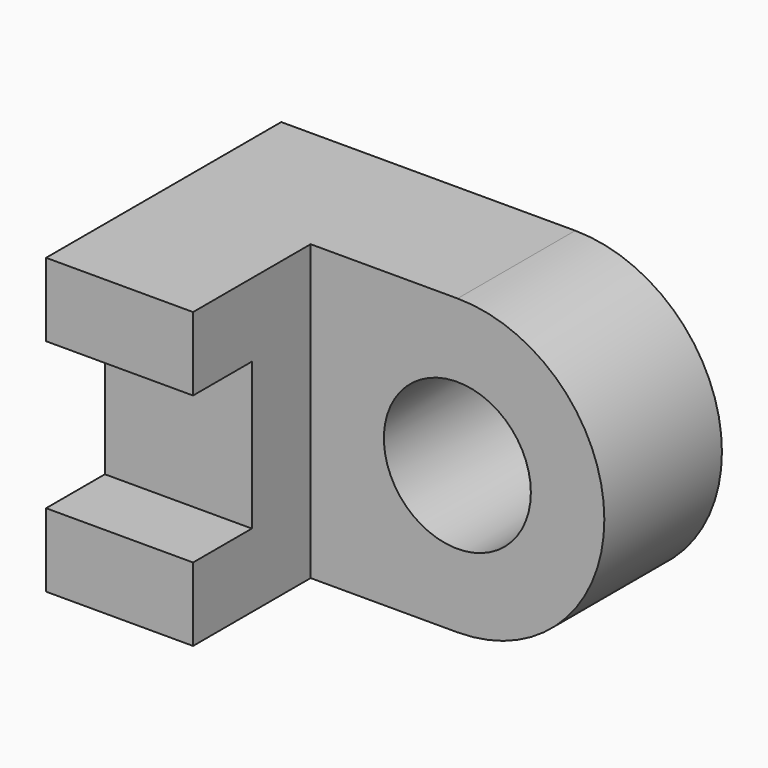
from build123d import *

# Parameters (mm, degrees)
F0_R     = 10
F1_DEPTH = 20
F2_W     = 20
F2_H     = 40
F3_DEPTH = 20
F4_W     = 20
F4_H     = 20
F5_DEPTH = 10


with BuildPart() as f1:
    # F0 (on Front) → F1 (new body)
    with BuildSketch(Plane.XZ):
        with BuildLine():
            Line((-40, 40), (-40, 0))
            Line((-40, 0), (0, 0))
            ThreePointArc((0, 0), (19.968011, 20), (0, 40))
            Line((0, 40), (-40, 40))
        make_face()
        with Locations((-0.032014, 20)):
            Circle(F0_R, mode=Mode.SUBTRACT)
    extrude(amount=F1_DEPTH)

    # F2 (on face) → F3 (join)
    with BuildSketch(Plane.XZ.offset(20)):
        with Locations((-30, 20)):
            Rectangle(F2_W, F2_H)
    extrude(amount=F3_DEPTH)

    # F4 (on face) → F5 (cut)
    with BuildSketch(Plane.XZ.offset(40)):
        with Locations((-30, 20)):
            Rectangle(F4_W, F4_H)
    extrude(amount=-F5_DEPTH, mode=Mode.SUBTRACT)


solid = f1.part
